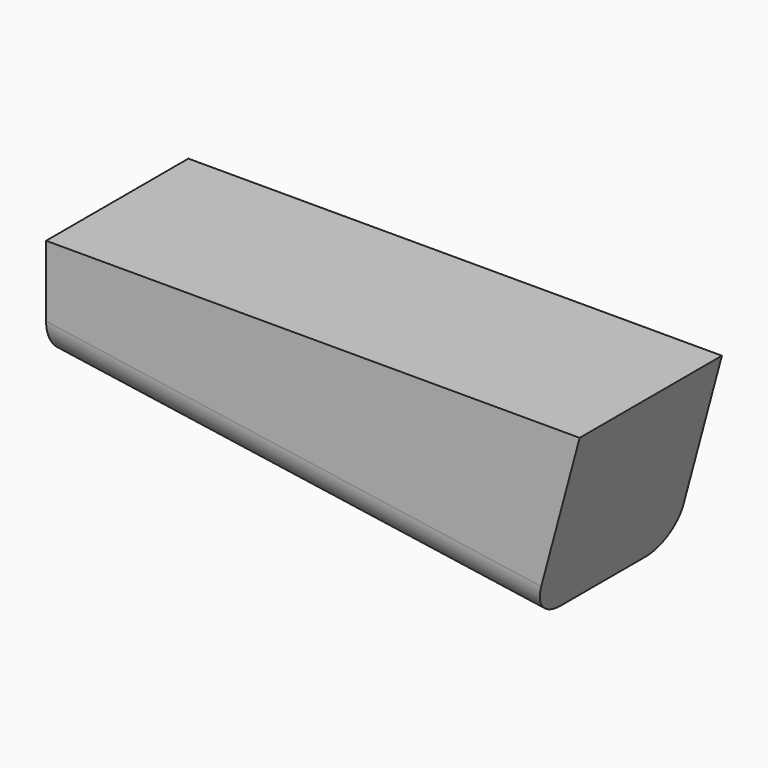
from build123d import *

# Parameters (mm, degrees)
F1_DEPTH = 25
F2_R     = 5


with BuildPart() as f1:
    # F0 (on Front) → F1 (new body)
    with BuildSketch(Plane.XZ):
        Polygon((-6.69873, -25), (0, 0), (-75, 0), (-75, -15), align=None)
    extrude(amount=F1_DEPTH)

    # F2
    f2_edges = [f1.edges().sort_by_distance(p)[0] for p in [
        (-40.849365, -25, -20),
        (-40.849365, 0, -20),
    ]]
    fillet(f2_edges, radius=F2_R)


solid = f1.part
